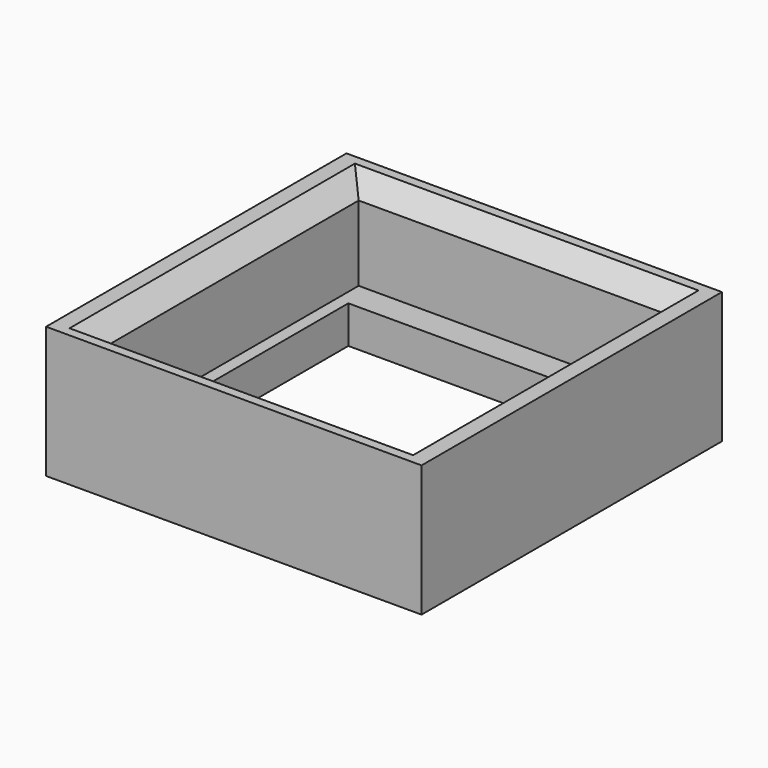
from build123d import *

# Parameters (mm, degrees)
SKETCH_W      = 20
SKETCH_H      = 20
SKETCH_W_2    = 15
SKETCH_H_2    = 14
PAD_DEPTH     = 2
SKETCH001_W   = 20
SKETCH001_H   = 20
SKETCH001_W_2 = 16.3
SKETCH001_H_2 = 17
PAD001_DEPTH  = 5
CHAMFER_SIZE  = 1


with BuildPart() as part:
    # Sketch → Pad (new body)
    with BuildSketch(Plane.XY):
        Rectangle(SKETCH_W, SKETCH_H)
        Rectangle(SKETCH_W_2, SKETCH_H_2, mode=Mode.SUBTRACT)
    extrude(amount=PAD_DEPTH)

    # Sketch001 (on Face10 of Pad) → Pad001 (join)
    with BuildSketch(Plane.XY.offset(2)):
        Rectangle(SKETCH001_W, SKETCH001_H)
        Rectangle(SKETCH001_W_2, SKETCH001_H_2, mode=Mode.SUBTRACT)
    extrude(amount=PAD001_DEPTH)

    # Chamfer
    chamfer_edges = [part.edges().sort_by_distance(p)[0] for p in [
        (0, 8.5, 7),
        (-8.15, 0, 7),
        (0, -8.5, 7),
        (8.15, 0, 7),
    ]]
    chamfer(chamfer_edges, length=CHAMFER_SIZE)


solid = part.part
